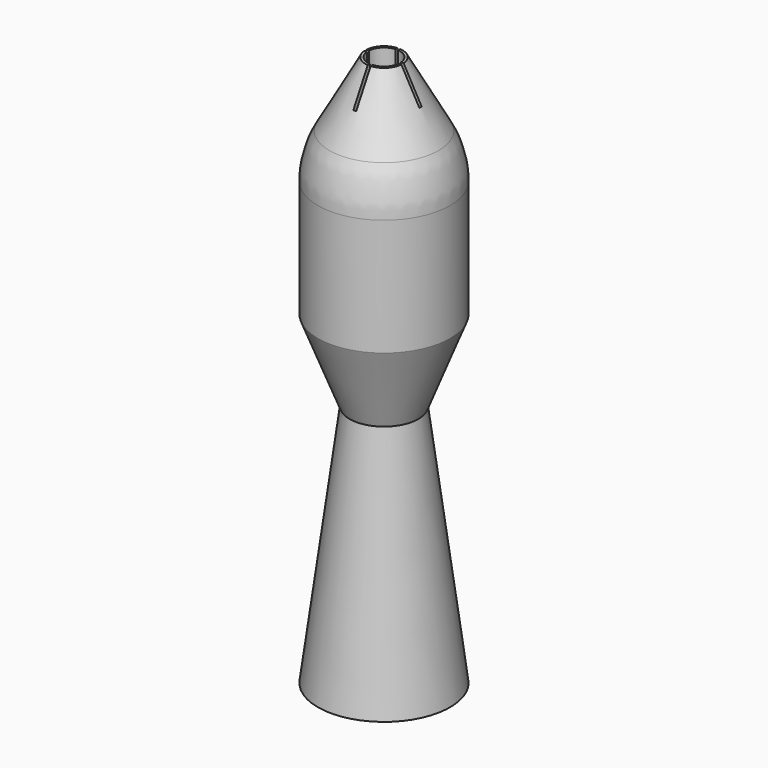
from build123d import *

# Parameters (mm, degrees)
F2_R      = 12.7
F5_R      = 2.54
F10_W     = 0.396875
F10_H     = 4.856163
F10_W_2   = 4.856162
F10_H_2   = 0.396875
F10_H_3   = 4.856162
F11_DEPTH = 12.7


with BuildPart() as f1:
    # F0 (on Front) → F1 (revolve)
    with BuildSketch(Plane.XZ):
        Polygon((-9.144, -33.673599), (0, -33.673599), (0, 42.526401), (-2.5654, 42.526401), (-9.144, 30.708205), (-9.144, 11.243628), (-4.7625, 0), align=None)
    revolve(axis=Axis((0, 0, 4.426401), (0, 0, 1)))

    # F2
    f2_edges = [f1.edges().sort_by_distance(p)[0] for p in [
        (9.144, 0, 30.708205),
    ]]
    fillet(f2_edges, radius=F2_R)

    # F3 (on Front) → F4 (revolve, cut)
    with BuildSketch(Plane.XZ):
        Polygon((0, -36.217926), (0, 0), (-3.161618, 0), (-7.874178, -36.217926), align=None)
    revolve(axis=Axis((0, 0, -18.108963), (0, 0, -1)), mode=Mode.SUBTRACT)

    # F5
    f5_edges = [f1.edges().sort_by_distance(p)[0] for p in [
        (3.161618, 0, 0),
    ]]
    fillet(f5_edges, radius=F5_R)

    # F6 (on Front) → F7 (revolve, cut)
    with BuildSketch(Plane.XZ):
        Polygon((0, -36.17549), (0, 0), (-3.188173, -12.631214), (-5.986212, -15.556437), (-8.669097, -36.17549), align=None)
    revolve(axis=Axis((0, 0, -18.087745), (0, 0, -1)), mode=Mode.SUBTRACT)

    # F8 (on Front) → F9 (revolve, cut)
    with BuildSketch(Plane.XZ):
        Polygon((0, 4.207624), (0, 46.769504), (-2.216791, 43.152663), (-2.216791, 38.256735), (-6.76275, 30.090099), (-6.76275, 11.691208), (-3.846492, 4.207624), align=None)
    revolve(axis=Axis((0, 0, 25.488564), (0, 0, -1)), mode=Mode.SUBTRACT)

    # F10 (on face) → F11 (cut)
    with BuildSketch(Plane.XY.offset(42.526401)):
        with Locations((1e-06, 2.626518)):
            Rectangle(F10_W, F10_H)
        Polygon((-0.198437, -0.198438), (-0.198437, 0.198437), (-5.0546, 0.198437), (-5.0546, -0.198437), align=None)
        with Locations((2.626519, -1e-06)):
            Rectangle(F10_W_2, F10_H_2)
        with Locations((1e-06, -2.626519)):
            Rectangle(F10_W, F10_H_3)
    extrude(amount=-F11_DEPTH, mode=Mode.SUBTRACT)


solid = f1.part
